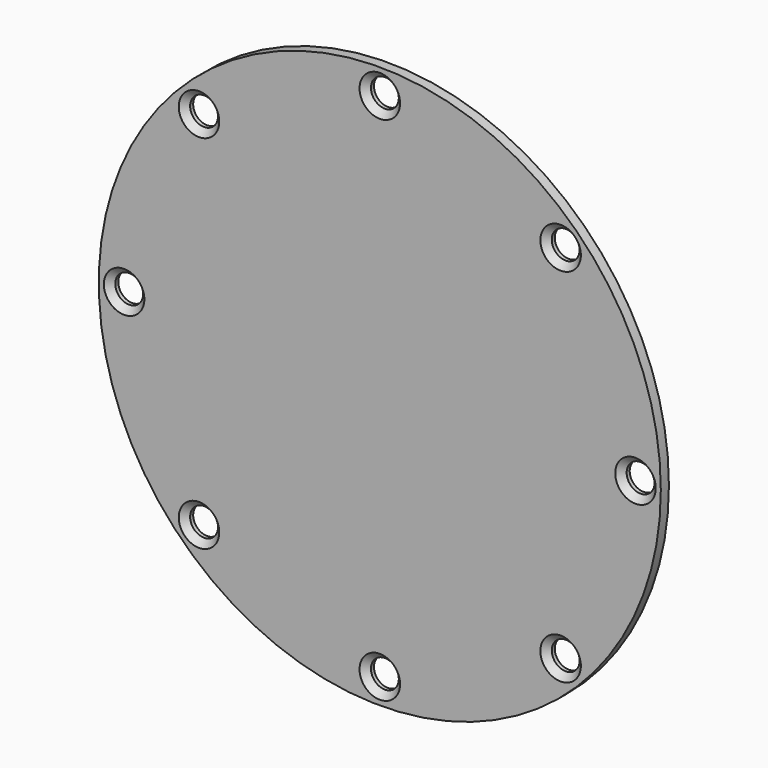
from build123d import *

# Parameters (mm, degrees)
F0_R           = 55.5
F1_DEPTH       = 2
F3_D           = 5.5
F3_DEPTH       = 30
F3_CSINK_D     = 8
F3_CSINK_ANGLE = 90


with BuildPart() as f1:
    # F0 (on Front) → F1 (new body)
    with BuildSketch(Plane.XZ):
        Circle(F0_R)
    extrude(amount=F1_DEPTH)

    # F3
    with Locations(Plane.XZ.offset(2)):
        with Locations((0, 50.5), (35.708892, 35.708892), (50.5, 0), (35.708892, -35.708892), (0, -50.5), (-35.708892, -35.708892), (-50.5, 0), (-35.708892, 35.708892)):
            CounterSinkHole(F3_D / 2, F3_CSINK_D / 2, depth=F3_DEPTH, counter_sink_angle=F3_CSINK_ANGLE)


solid = f1.part
